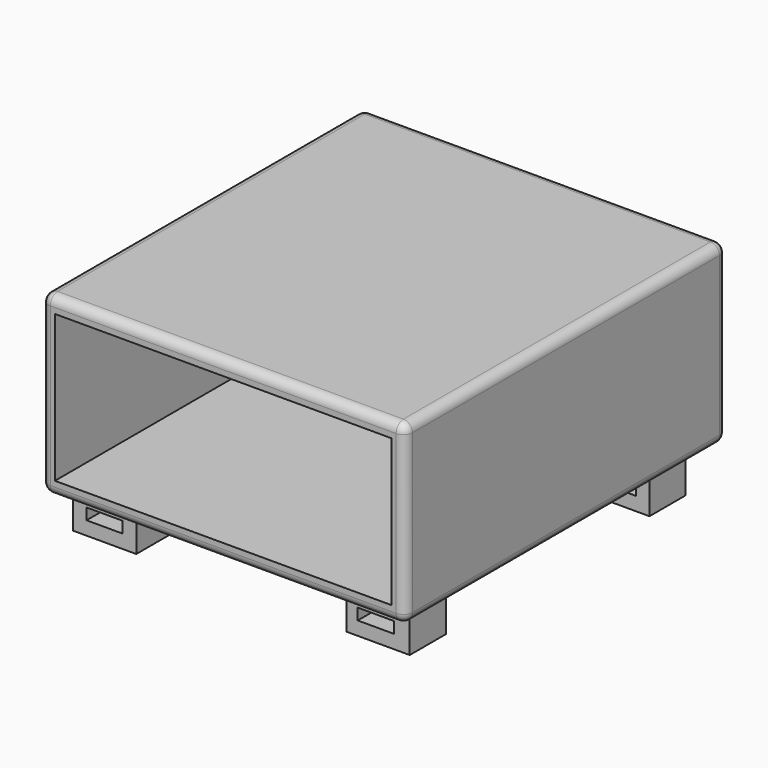
from build123d import *

# Parameters (mm, degrees)
F0_W      = 102.235
F0_H      = 109.855
F1_DEPTH  = 49.53
F2_W      = 94.615
F2_H      = 41.275
F3_DEPTH  = 111.252
F4_W      = 17.78
F4_H      = 12.7
F5_DEPTH  = 10.795
F6_W      = 10.16
F6_H      = 3.175
F7_DEPTH  = 12.7
F8_W      = 102.235
F8_H      = 49.53
F9_DEPTH  = 3.048
F10_W     = 10.16
F10_H     = 3.175
F11_DEPTH = 25.4
F12_W     = 10.16
F12_H     = 3.175
F13_DEPTH = 25.4
F14_R     = 2.54
F15_W     = 10.16
F15_H     = 3.175
F16_DEPTH = 25.4
F17_W     = 10.16
F17_H     = 3.175
F18_DEPTH = 25.4


with BuildPart() as f1:
    # F0 (on Top) → F1 (new body)
    with BuildSketch(Plane.XY):
        Rectangle(F0_W, F0_H)
    extrude(amount=F1_DEPTH)

    # F2 (on face) → F3 (cut)
    with BuildSketch(Plane.XZ.offset(54.9275)):
        with Locations((0, 24.765)):
            Rectangle(F2_W, F2_H)
    extrude(amount=-F3_DEPTH, mode=Mode.SUBTRACT)

    # F4 (on face) → F5 (join)
    with BuildSketch(Plane(origin=(0, 0, 0), x_dir=(1, 0, 0), z_dir=(0, 0, -1))):
        with Locations((-38.290499, -42.132252)):
            Rectangle(F4_W, F4_H)
        Polygon((-38.4175, 48.5775), (-47.3075, 48.5775), (-47.3075, 35.8775), (-29.5275, 35.8775), (-29.5275, 48.5775), align=None)
        Polygon((47.3075, 48.5775), (38.4175, 48.5775), (29.5275, 48.5775), (29.5275, 35.8775), (47.3075, 35.8775), align=None)
        Polygon((29.400499, -48.482252), (38.4175, -48.482252), (47.180499, -48.482252), (47.180499, -35.782252), (29.400499, -35.782252), align=None)
    extrude(amount=F5_DEPTH)

    # F6 (on face) → F7 (cut)
    with BuildSketch(Plane(origin=(-51.1175, 0, 0), x_dir=(0, -1, 0), z_dir=(-1, 0, 0))):
        with Locations((-26.9875, -3.175)):
            Rectangle(F6_W, F6_H)
        with Locations((26.9875, -3.175)):
            Rectangle(F6_W, F6_H)
    extrude(amount=-F7_DEPTH, mode=Mode.SUBTRACT)

    # F8 (on face) → F9 (join)
    with BuildSketch(Plane(origin=(0, 54.9275, 0), x_dir=(-1, 0, 0), z_dir=(0, 1, 0))):
        with Locations((0, 24.765)):
            Rectangle(F8_W, F8_H)
    extrude(amount=F9_DEPTH)

    # F10 (on face) → F11 (cut)
    with BuildSketch(Plane.XZ.offset(48.5775)):
        with Locations((-38.4175, -5.3975)):
            Rectangle(F10_W, F10_H)
    extrude(amount=-F11_DEPTH, mode=Mode.SUBTRACT)

    # F12 (on face) → F13 (cut)
    with BuildSketch(Plane.XZ.offset(-35.782252)):
        with Locations((-38.290499, -5.3975)):
            Rectangle(F12_W, F12_H)
    extrude(amount=-F13_DEPTH, mode=Mode.SUBTRACT)

    # F14
    f14_edges = [f1.edges().sort_by_distance(p)[0] for p in [
        (-51.1175, -54.9275, 24.765),
        (51.1175, -54.9275, 24.765),
        (51.1175, 57.9755, 24.765),
        (-51.1175, 57.9755, 24.765),
        (0, 57.9755, 0),
        (51.1175, 1.524, 0),
        (51.1175, 1.524, 49.53),
        (-51.1175, 1.524, 0),
        (-51.1175, 1.524, 49.53),
        (0, 57.9755, 49.53),
        (0, -54.9275, 49.53),
        (0, -54.9275, 0),
    ]]
    fillet(f14_edges, radius=F14_R)

    # F15 (on face) → F16 (cut)
    with BuildSketch(Plane(origin=(0, 48.482252, 0), x_dir=(-1, 0, 0), z_dir=(0, 1, 0))):
        with Locations((-38.290499, -5.3975)):
            Rectangle(F15_W, F15_H)
    extrude(amount=-F16_DEPTH, mode=Mode.SUBTRACT)

    # F17 (on face) → F18 (cut)
    with BuildSketch(Plane(origin=(0, -35.8775, 0), x_dir=(-1, 0, 0), z_dir=(0, 1, 0))):
        with Locations((-37.7825, -5.3975)):
            Rectangle(F17_W, F17_H)
    extrude(amount=-F18_DEPTH, mode=Mode.SUBTRACT)


solid = f1.part
